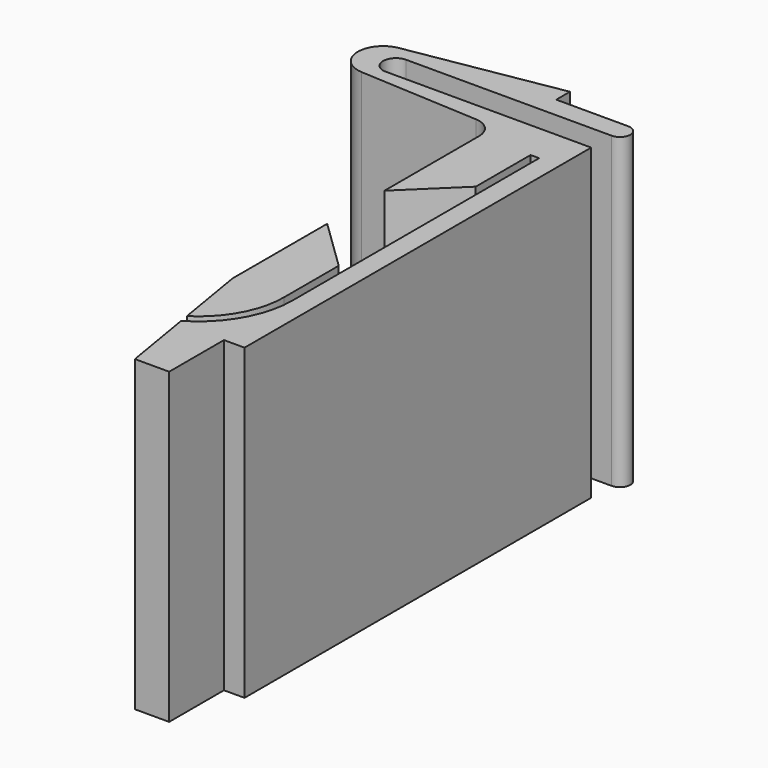
from build123d import *

# Parameters (mm, degrees)
PAD006_DEPTH    = 18
POCKET004_DEPTH = 18
POCKET005_DEPTH = 18


with BuildPart() as part:
    # Sketch010 → Pad006 (new body)
    with BuildSketch(Plane.XY):
        with BuildLine():
            Line((178, 0), (176, 0))
            Line((176, 0), (174.5, 9))
            Line((174.5, 27), (174.5, 9))
            ThreePointArc((174.5, 27), (174.171415, 27.825006), (173.365608, 28.198205))
            Line((173.365608, 28.198205), (166.36958, 28.581273))
            ThreePointArc((166.202763, 31.5), (164.98147, 29.966068), (166.36958, 28.581273))
            Line((175, 33), (166.202763, 31.5))
            Line((175, 33), (175, 32))
            Line((175, 32), (179.2, 32))
            ThreePointArc((179.2, 30.8), (179.8, 31.4), (179.2, 32))
            Line((179.2, 30.8), (167.2, 30.8))
            ThreePointArc((167.2, 30.8), (166.45, 30.05), (167.2, 29.3))
            Line((179.2, 29.3), (167.2, 29.3))
            Line((179.2, 29.3), (179.2, 4))
            Line((179.2, 4), (178, 4))
            Line((178, 4), (178, 0))
        make_face()
    extrude(amount=PAD006_DEPTH)

    # Sketch011 → Groove001 (revolve, cut)
    with BuildSketch(Plane.XY.offset(9)):
        Polygon((174.2, 18), (174.2, 19.8), (177.5, 23), (177.5, 27), (178, 27), (178, 18), align=None)
    revolve(axis=Axis((0, 18, 9), (-1, 0, 0)), mode=Mode.SUBTRACT)

    # Sketch012 → Pocket004 (cut)
    with BuildSketch(Plane.XY.offset(6.5)):
        with BuildLine():
            Line((178, 27), (177.5, 27))
            Line((177.5, 27), (177.5, 23))
            Line((177.5, 23), (174.2, 19.8))
            Line((174.2, 19.8), (174.2, 16.2))
            Line((174.2, 16.2), (177.5, 13))
            Line((177.5, 13), (177.5, 9))
            ThreePointArc((172.5, 4), (176.035534, 5.464466), (177.5, 9))
            Line((172.5, 4), (172.5, 3.5))
            ThreePointArc((172.5, 3.5), (176.389087, 5.110913), (178, 9))
            Line((178, 9), (178, 27))
        make_face()
    extrude(amount=POCKET004_DEPTH, mode=Mode.SUBTRACT)

    # Sketch013 → Pocket005 (cut)
    with BuildSketch(Plane.XY):
        Polygon((177.5, 27), (178, 27), (178, 13), (177.5, 13), (177.5, 20), (177, 20), (177, 21), (177.5, 21), align=None)
    extrude(amount=POCKET005_DEPTH, mode=Mode.SUBTRACT)


solid = part.part
